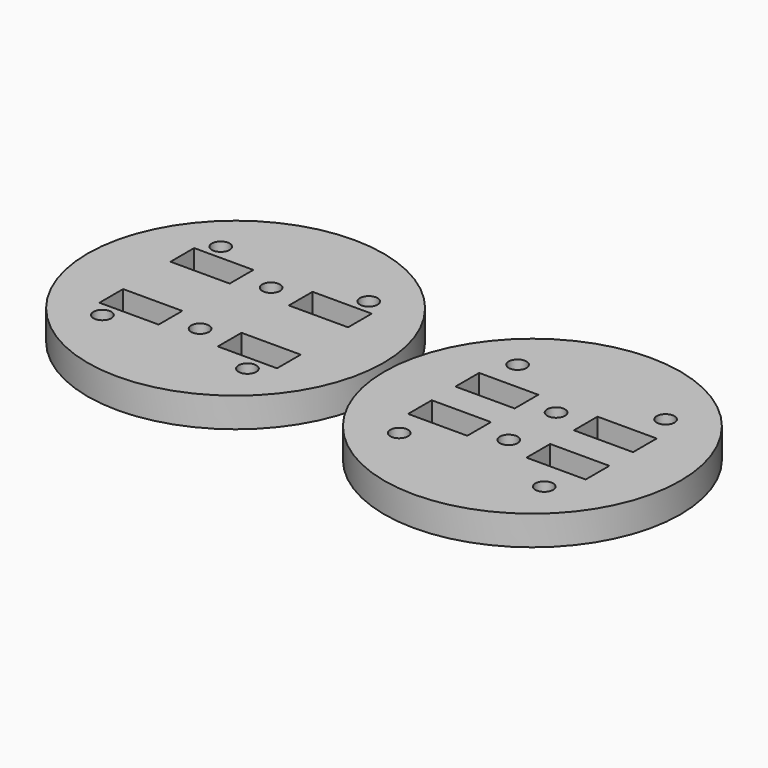
from build123d import *

# Parameters (mm, degrees)
F0_R     = 25
F0_R_2   = 1.5
F0_W     = 10
F0_H     = 5
F1_DEPTH = 5
F2_R     = 25
F2_R_2   = 1.5
F2_W     = 10
F2_H     = 5
F3_DEPTH = 5


with BuildPart() as f1:
    # F0 (on Top) → F1 (new body)
    with BuildSketch(Plane.XY):
        Circle(F0_R)
        with Locations((-12.5, -12.5)):
            Circle(F0_R_2, mode=Mode.SUBTRACT)
        with Locations((-10, -5)):
            Rectangle(F0_W, F0_H, mode=Mode.SUBTRACT)
        with Locations((12, -12.5)):
            Circle(F0_R_2, mode=Mode.SUBTRACT)
        with Locations((0, -5)):
            Circle(F0_R_2, mode=Mode.SUBTRACT)
        with Locations((10, -5)):
            Rectangle(F0_W, F0_H, mode=Mode.SUBTRACT)
        with Locations((-10, 5)):
            Rectangle(F0_W, F0_H, mode=Mode.SUBTRACT)
        with Locations((-12.5, 12.5)):
            Circle(F0_R_2, mode=Mode.SUBTRACT)
        with Locations((0, 5)):
            Circle(F0_R_2, mode=Mode.SUBTRACT)
        with Locations((10, 5)):
            Rectangle(F0_W, F0_H, mode=Mode.SUBTRACT)
        with Locations((12.5, 12.5)):
            Circle(F0_R_2, mode=Mode.SUBTRACT)
    extrude(amount=F1_DEPTH)


with BuildPart() as f3:
    # F2 (on Top) → F3 (new body)
    with BuildSketch(Plane.XY):
        with Locations((-51.634403, 1.867599)):
            Circle(F2_R)
        with Locations((-64.134403, -10.632401)):
            Circle(F2_R_2, mode=Mode.SUBTRACT)
        with Locations((-61.634403, -5.632401)):
            Rectangle(F2_W, F2_H, mode=Mode.SUBTRACT)
        with Locations((-39.634403, -10.632401)):
            Circle(F2_R_2, mode=Mode.SUBTRACT)
        with Locations((-51.634403, -5.632401)):
            Circle(F2_R_2, mode=Mode.SUBTRACT)
        with Locations((-41.634403, -5.632401)):
            Rectangle(F2_W, F2_H, mode=Mode.SUBTRACT)
        with Locations((-61.634403, 9.367599)):
            Rectangle(F2_W, F2_H, mode=Mode.SUBTRACT)
        with Locations((-64.134403, 14.367599)):
            Circle(F2_R_2, mode=Mode.SUBTRACT)
        with Locations((-51.634403, 9.367599)):
            Circle(F2_R_2, mode=Mode.SUBTRACT)
        with Locations((-41.634403, 9.367599)):
            Rectangle(F2_W, F2_H, mode=Mode.SUBTRACT)
        with Locations((-39.134403, 14.367599)):
            Circle(F2_R_2, mode=Mode.SUBTRACT)
    extrude(amount=F3_DEPTH)


solid = Compound([f1.part, f3.part])
